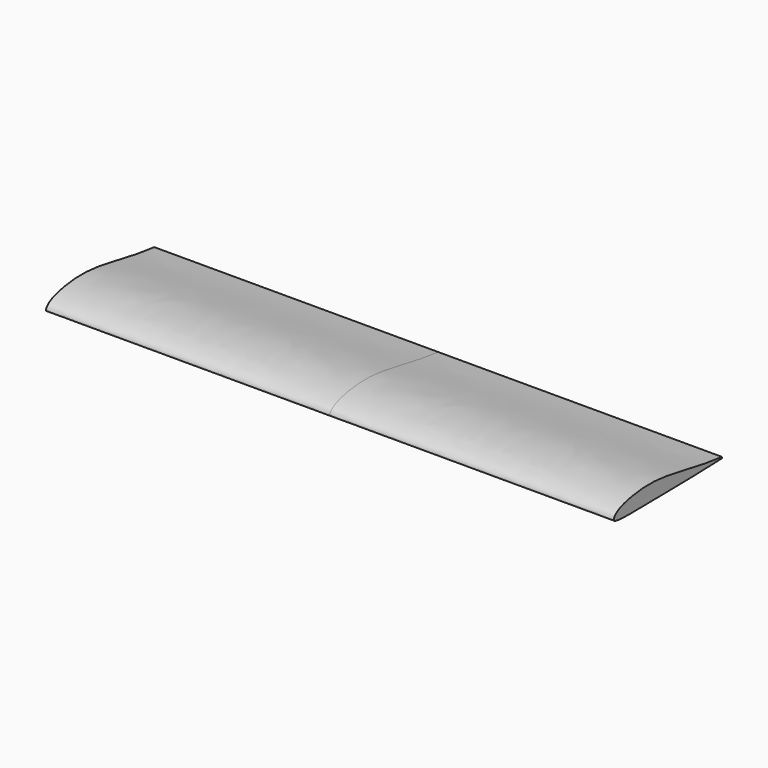
from build123d import *

# Parameters (mm, degrees)
F2_DEPTH = 4267.2


with BuildPart() as f2:
    # F1 (on Right) → F2 (new body, symmetric)
    with BuildSketch(Plane.YZ):
        with BuildLine():
            add(Edge.make_bspline(
                [(0, 0), (0, 113.3537102845), (783.0676300162, 316.6574498467), (1452.8412378293, 64.7550552938), (2032, 10.16)],
                knots=[0, 0, 0, 0, 0.4008627745, 1, 1, 1, 1], degree=3))
            add(Edge.make_bspline(
                [(0, 0), (0, -52.6634632164), (784.591504214, -34.1194488473), (1495.0986151983, -32.5417871578), (2032, -10.16)],
                knots=[0, 0, 0, 0, 0.3958815948, 1, 1, 1, 1], degree=3))
            Line((2032, -10.16), (2032, 10.16))
        make_face()
    extrude(amount=F2_DEPTH, both=True)


solid = f2.part
